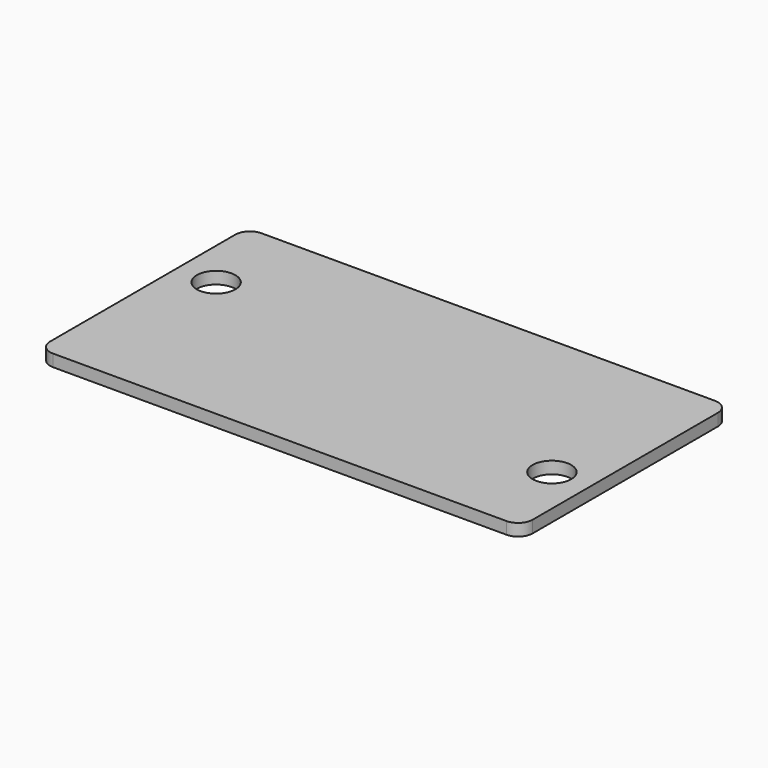
from build123d import *

# Parameters (mm, degrees)
F0_W     = 1000
F0_H     = 340
F0_R     = 40
F1_DEPTH = 25


with BuildPart() as f1:
    # F0 (on Top) → F1 (new body)
    with BuildSketch(Plane.XY):
        with BuildLine():
            ThreePointArc((500, 240), (491.213203, 261.213203), (470, 270))
            Line((470, 270), (-470, 270))
            ThreePointArc((-470, 270), (-491.213203, 261.213203), (-500, 240))
            Line((-500, 240), (-500, 170))
            Line((-500, 170), (500, 170))
            Line((500, 170), (500, 240))
        make_face()
        with BuildLine():
            Line((500, -240), (500, -170))
            Line((500, -170), (-500, -170))
            Line((-500, -170), (-500, -240))
            ThreePointArc((-500, -240), (-491.213203, -261.213203), (-470, -270))
            Line((-470, -270), (470, -270))
            ThreePointArc((470, -270), (491.213203, -261.213203), (500, -240))
        make_face()
        Rectangle(F0_W, F0_H)
        with Locations((420, -90)):
            Circle(F0_R, mode=Mode.SUBTRACT)
        with Locations((-420, 90)):
            Circle(F0_R, mode=Mode.SUBTRACT)
    extrude(amount=F1_DEPTH)


solid = f1.part
